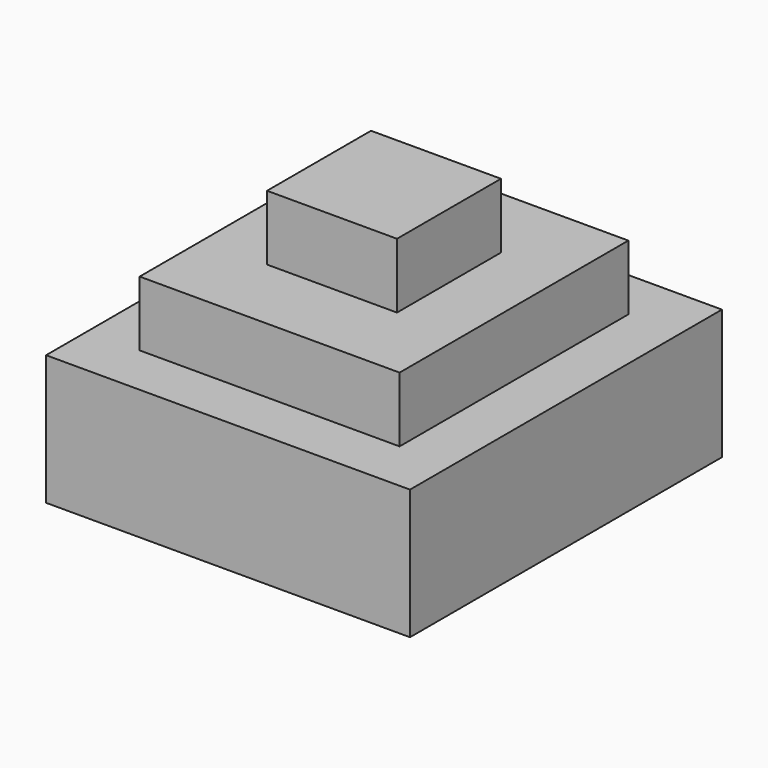
from build123d import *

# Parameters (mm, degrees)
F0_W     = 28
F0_H     = 30
F0_W_2   = 20
F0_H_2   = 22
F1_DEPTH = 10
F2_DEPTH = 15
F3_W     = 10
F3_H     = 10
F4_DEPTH = 5


with BuildPart() as f1:
    # F0 (on Top) → F1 (new body)
    with BuildSketch(Plane.XY):
        Rectangle(F0_W, F0_H)
        Rectangle(F0_W_2, F0_H_2, mode=Mode.SUBTRACT)
    extrude(amount=F1_DEPTH)

    # F0 (on Top) → F2 (join)
    with BuildSketch(Plane.XY):
        Rectangle(F0_W_2, F0_H_2)
    extrude(amount=F2_DEPTH)

    # F3 (on face) → F4 (join)
    with BuildSketch(Plane.XY.offset(15)):
        Rectangle(F3_W, F3_H)
    extrude(amount=F4_DEPTH)


solid = f1.part
